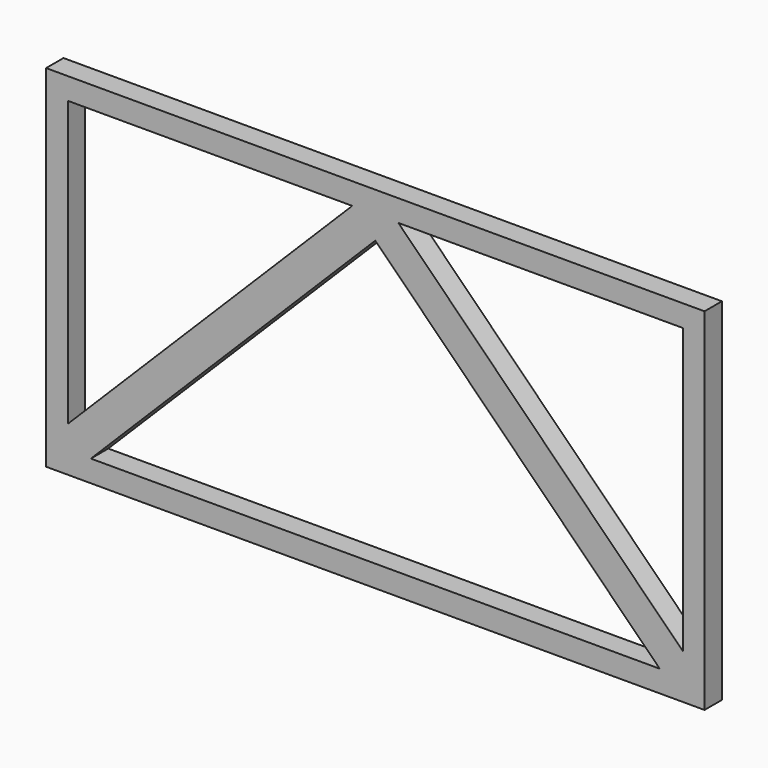
from build123d import *

# Parameters (mm, degrees)
F0_W     = 769.22049
F0_H     = 410.010244
F1_DEPTH = 25.4


with BuildPart() as f1:
    # F0 (on Front) → F1 (new body)
    with BuildSketch(Plane.XZ):
        Rectangle(F0_W, F0_H)
        Polygon((-359.210245, -179.605122), (-359.210245, -152.664354), (-359.210245, 179.605122), (-26.940768, 179.605122), (0, 179.605122), (26.940768, 179.605122), (359.210245, 179.605122), (359.210245, -152.664354), (359.210245, -179.605122), (332.269476, -179.605122), (-332.269476, -179.605122), align=None, mode=Mode.SUBTRACT)
        Polygon((-26.940768, 179.605122), (-359.210245, -152.664354), (-359.210245, -179.605122), (-332.269476, -179.605122), (0, 152.664354), (0, 179.605122), align=None)
        Polygon((26.940768, 179.605122), (0, 179.605122), (0, 152.664354), (332.269476, -179.605122), (359.210245, -179.605122), (359.210245, -152.664354), align=None)
    extrude(amount=F1_DEPTH)


solid = f1.part
